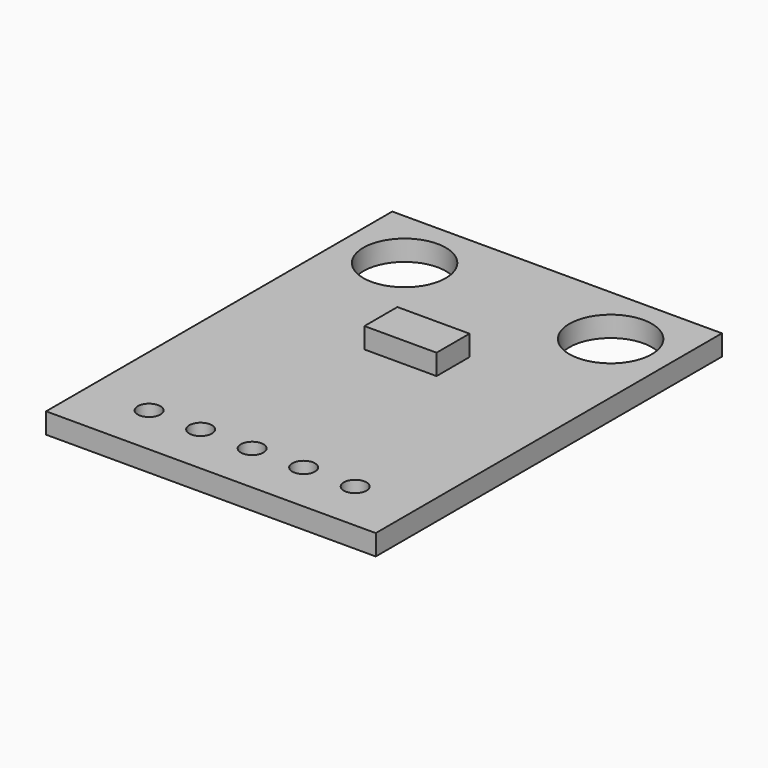
from build123d import *

# Parameters (mm, degrees)
F0_W     = 16
F0_H     = 21
F1_DEPTH = 1
F2_D     = 1.1
F3_D     = 4
F4_W     = 3.5
F4_H     = 2
F5_DEPTH = 1


with BuildPart() as f1:
    # F0 (on Top) → F1 (new body)
    with BuildSketch(Plane.XY):
        Rectangle(F0_W, F0_H)
    extrude(amount=F1_DEPTH)

    # F2 (through all)
    with Locations(Plane(origin=(0, 0, 0), x_dir=(1, 0, 0), z_dir=(0, 0, -1))):
        with Locations((-5, 8), (-2.5, 8), (0, 8), (2.5, 8), (5, 8)):
            Hole(F2_D / 2)

    # F3 (through all)
    with Locations(Plane(origin=(0, 0, 0), x_dir=(1, 0, 0), z_dir=(0, 0, -1))):
        with Locations((-5, -7.5), (5, -7.5)):
            Hole(F3_D / 2)


with BuildPart() as f5:
    # F4 (on face) → F5 (new body)
    with BuildSketch(Plane.XY.offset(1)):
        with Locations((0, 2)):
            Rectangle(F4_W, F4_H)
    extrude(amount=F5_DEPTH)


solid = Compound([f1.part, f5.part])
